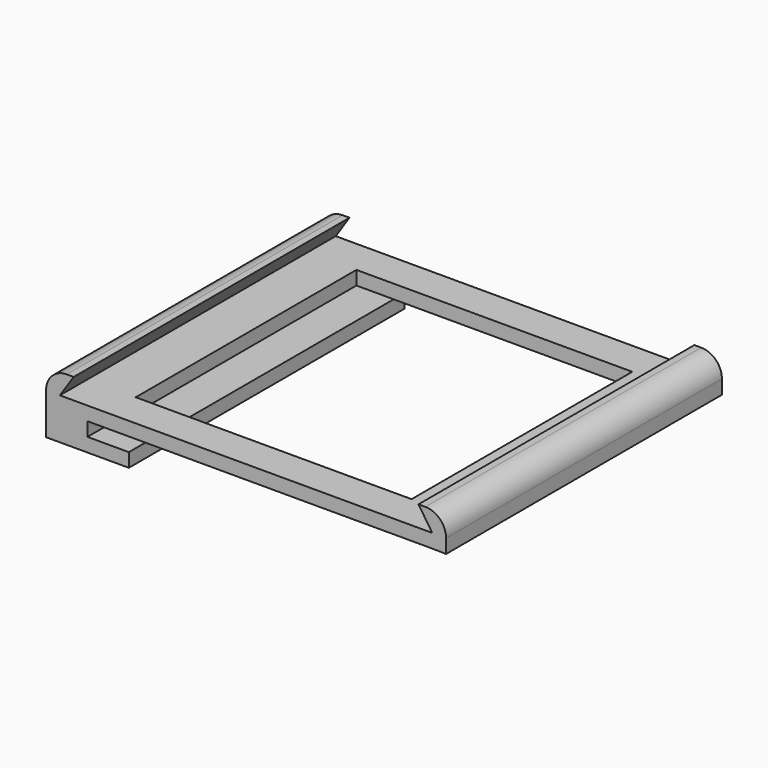
from build123d import *

# Parameters (mm, degrees)
F1_DEPTH = 50
F2_R     = 3
F3_W     = 40
F3_H     = 40
F4_DEPTH = 2


with BuildPart() as f1:
    # F0 (on Front) → F1 (new body)
    with BuildSketch(Plane.XZ):
        Polygon((0, 9), (0, 6), (2, 6), (4, 9), align=None)
        Polygon((2, 6), (0, 6), (0, 0), (12, 0), (12, 2), (6, 2), (6, 4), (56, 4), (58, 3.95681), (58, 6), (56, 6), align=None)
        Polygon((54, 9), (56, 6), (58, 6), (58, 9), align=None)
    extrude(amount=F1_DEPTH)

    # F2
    f2_edges = [f1.edges().sort_by_distance(p)[0] for p in [
        (0, -25, 9),
        (58, -25, 9),
    ]]
    fillet(f2_edges, radius=F2_R)

    # F3 (on face) → F4 (cut)
    with BuildSketch(Plane.XY.offset(6)):
        with Locations((29, -25)):
            Rectangle(F3_W, F3_H)
    extrude(amount=-F4_DEPTH, mode=Mode.SUBTRACT)


solid = f1.part
